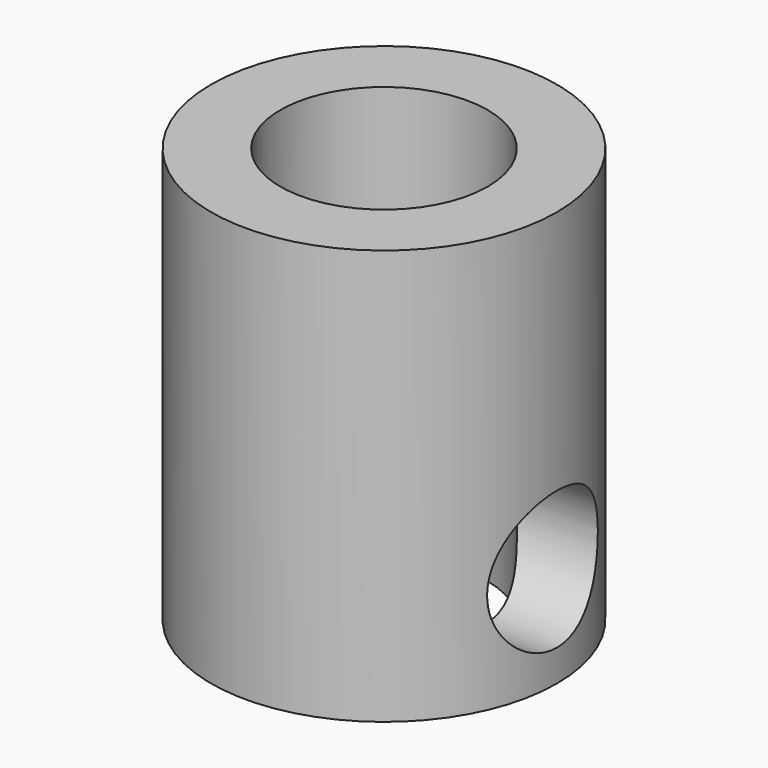
from build123d import *

# Parameters (mm, degrees)
F0_R     = 5
F0_R_2   = 3
F1_DEPTH = 12
F3_D     = 4
F3_DEPTH = 5.001


with BuildPart() as f1:
    # F0 (on Top) → F1 (new body)
    with BuildSketch(Plane.XY):
        Circle(F0_R)
        Circle(F0_R_2, mode=Mode.SUBTRACT)
    extrude(amount=F1_DEPTH)

    # F3 (through all, one way)
    with BuildSketch(Plane(origin=(0, 0, 0), x_dir=(0, 1, 0), z_dir=(-1, 0, 0))):
        with Locations((0, -2.9129653703)):
            Circle(F3_D / 2)
    extrude(amount=-F3_DEPTH, mode=Mode.SUBTRACT)


solid = f1.part
